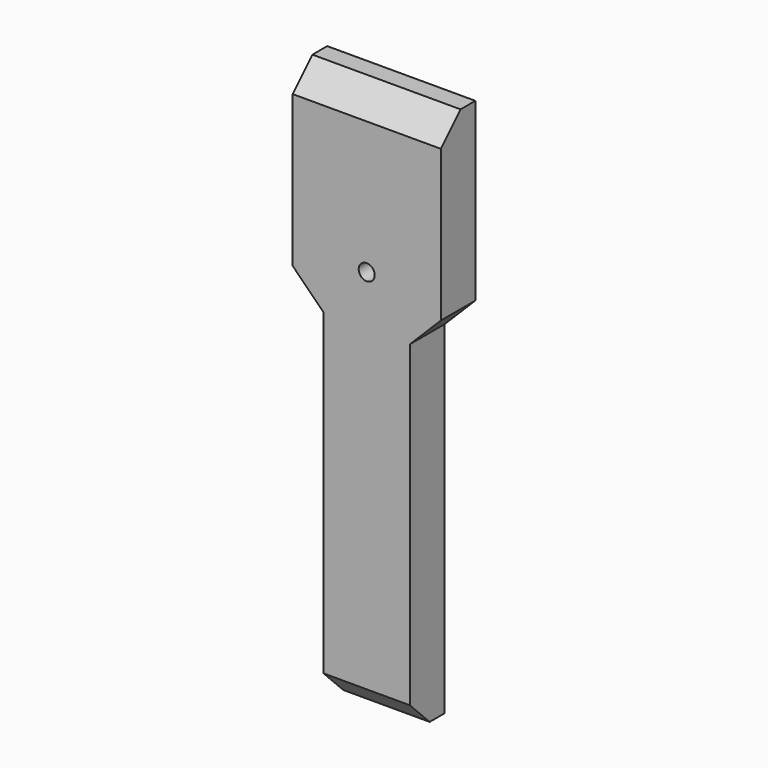
from build123d import *

# Parameters (mm, degrees)
SKETCH_R     = 13
PAD_DEPTH    = 70
CHAMFER_SIZE = 40


with BuildPart() as part:
    # Sketch → Pad (new body)
    with BuildSketch(Plane.XZ):
        Polygon((-50, 0), (-190, 0), (-190, 555), (-240, 605), (-240, 890), (0, 890), (0, 605), (-50, 555), align=None)
        with Locations((-120, 635)):
            Circle(SKETCH_R, mode=Mode.SUBTRACT)
    extrude(amount=PAD_DEPTH)

    # Chamfer
    chamfer_edges = [part.edges().sort_by_distance(p)[0] for p in [
        (-120, -70, 890),
        (-120, -70, 0),
    ]]
    chamfer(chamfer_edges, length=CHAMFER_SIZE)


solid = part.part
